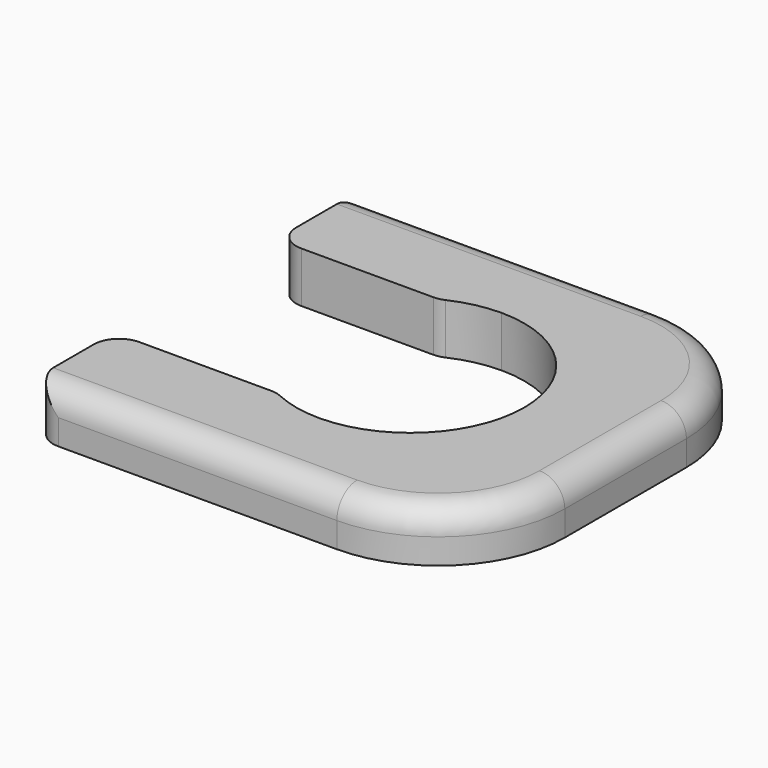
from build123d import *

# Parameters (mm, degrees)
F1_DEPTH = 2
F2_R     = 5
F3_R     = 1


with BuildPart() as f1:
    # F0 (on Top) → F1 (new body)
    with BuildSketch(Plane.XY):
        with BuildLine():
            Line((8.5, 8), (-8.5, 8))
            Line((-8.5, 8), (-8.5, 4.5))
            Line((-8.5, 4.5), (0, 4.5))
            ThreePointArc((0, 4.5), (3.181981, 3.181981), (4.5, 0))
            ThreePointArc((4.5, 0), (3.181981, -3.181981), (0, -4.5))
            Line((0, -4.5), (-8.5, -4.5))
            Line((-8.5, -4.5), (-8.5, -8))
            Line((-8.5, -8), (8.5, -8))
            Line((8.5, -8), (8.5, 8))
        make_face()
        with BuildLine():
            Line((0, 4.5), (-8.5, 4.5))
            Line((-8.5, 4.5), (-8.5, 4))
            Line((-8.5, 4), (-2.061553, 4))
            ThreePointArc((-2.061553, 4), (-1.06066, 4.373214), (0, 4.5))
        make_face()
        with BuildLine():
            Line((-2.061553, -4), (-8.5, -4))
            Line((-8.5, -4), (-8.5, -4.5))
            Line((-8.5, -4.5), (0, -4.5))
            ThreePointArc((0, -4.5), (-1.06066, -4.373214), (-2.061553, -4))
        make_face()
    extrude(amount=F1_DEPTH)

    # F2
    f2_edges = [f1.edges().sort_by_distance(p)[0] for p in [
        (8.5, 8, 1),
        (8.5, -8, 1),
    ]]
    fillet(f2_edges, radius=F2_R)

    # F3
    f3_edges = [f1.edges().sort_by_distance(p)[0] for p in [
        (-2.061553, -4, 1),
        (-2.061553, 4, 1),
        (-2.5, 8, 2),
        (-8.5, -4, 1),
        (-8.5, -8, 1),
        (-8.5, 4, 1),
        (-8.5, 8, 1),
    ]]
    fillet(f3_edges, radius=F3_R)


solid = f1.part
